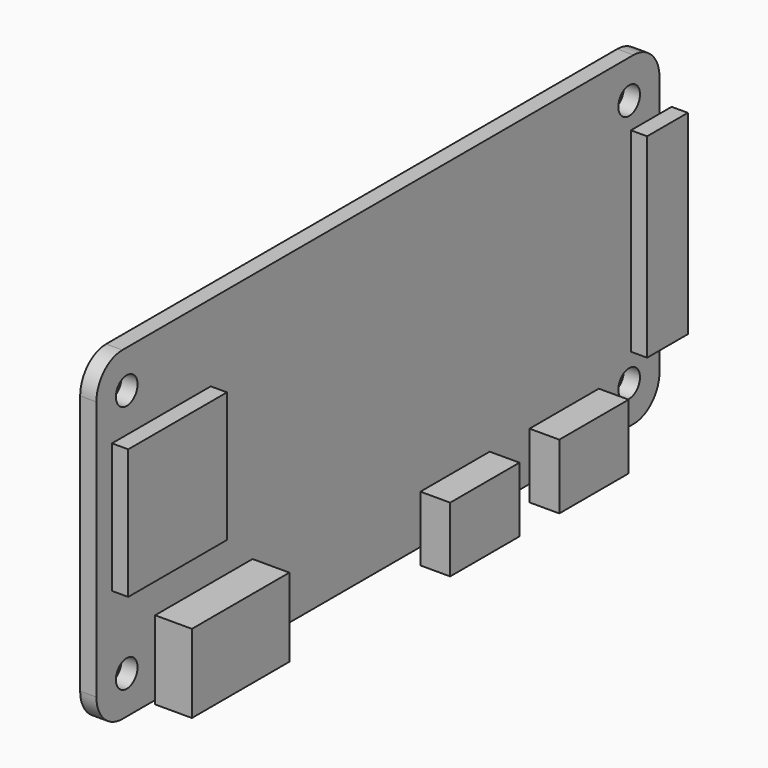
from build123d import *

# Parameters (mm, degrees)
F1_DEPTH = 0.75
F2_R     = 1.25
F3_DEPTH = 1.5
F4_W     = 11.25
F4_H     = 0.35
F4_H_2   = 6.9
F5_DEPTH = 3.4
F4_W_2   = 8
F4_H_3   = 4.5
F4_H_4   = 1.5
F6_DEPTH = 2.75
F4_W_3   = 1.4
F4_H_5   = 18
F4_W_4   = 3.3
F7_DEPTH = 1.5
F4_W_5   = 11.4
F4_H_6   = 12
F8_DEPTH = 1.5


with BuildPart() as f1:
    # F0 (on Right) → F1 (new body, symmetric)
    with BuildSketch(Plane.YZ):
        with BuildLine():
            Line((29.5, 15), (-29.5, 15))
            ThreePointArc((-29.5, 15), (-31.6213203436, 14.1213203436), (-32.5, 12))
            Line((-32.5, 12), (-32.5, -12))
            ThreePointArc((-32.5, -12), (-31.6213203436, -14.1213203436), (-29.5, -15))
            Line((-29.5, -15), (29.5, -15))
            ThreePointArc((29.5, -15), (31.6213203436, -14.1213203436), (32.5, -12))
            Line((32.5, -12), (32.5, 12))
            ThreePointArc((32.5, 12), (31.6213203436, 14.1213203436), (29.5, 15))
        make_face()
    extrude(amount=F1_DEPTH, both=True)

    # F2 (on face) → F3 (cut, through all)
    with BuildSketch(Plane.YZ.offset(0.75)):
        with Locations((-29, 11.5)):
            Circle(F2_R)
        with Locations((29, 11.5)):
            Circle(F2_R)
        with Locations((29, -11.5)):
            Circle(F2_R)
        with Locations((-29, -11.5)):
            Circle(F2_R)
    extrude(amount=-F3_DEPTH, mode=Mode.SUBTRACT)

    # F4 (on face) → F5 (join)
    with BuildSketch(Plane.YZ.offset(0.75)):
        with Locations((-20.1, -15.175)):
            Rectangle(F4_W, F4_H)
        with Locations((-20.1, -11.55)):
            Rectangle(F4_W, F4_H_2)
    extrude(amount=F5_DEPTH)

    # F4 (on face) → F6 (join)
    with BuildSketch(Plane.YZ.offset(0.75)):
        with Locations((8.9, -12.75)):
            Rectangle(F4_W_2, F4_H_3)
        with Locations((8.9, -15.75)):
            Rectangle(F4_W_2, F4_H_4)
        with Locations((21.5, -12.75)):
            Rectangle(F4_W_2, F4_H_3)
        with Locations((21.5, -15.75)):
            Rectangle(F4_W_2, F4_H_4)
    extrude(amount=F6_DEPTH)

    # F4 (on face) → F7 (join)
    with BuildSketch(Plane.YZ.offset(0.75)):
        with Locations((33.2, 0)):
            Rectangle(F4_W_3, F4_H_5)
        with Locations((30.85, 0)):
            Rectangle(F4_W_4, F4_H_5)
    extrude(amount=F7_DEPTH)

    # F4 (on face) → F8 (join)
    with BuildSketch(Plane.YZ.offset(0.75)):
        with Locations((-25, 1.9)):
            Rectangle(F4_W_5, F4_H_6)
    extrude(amount=F8_DEPTH)


solid = f1.part
